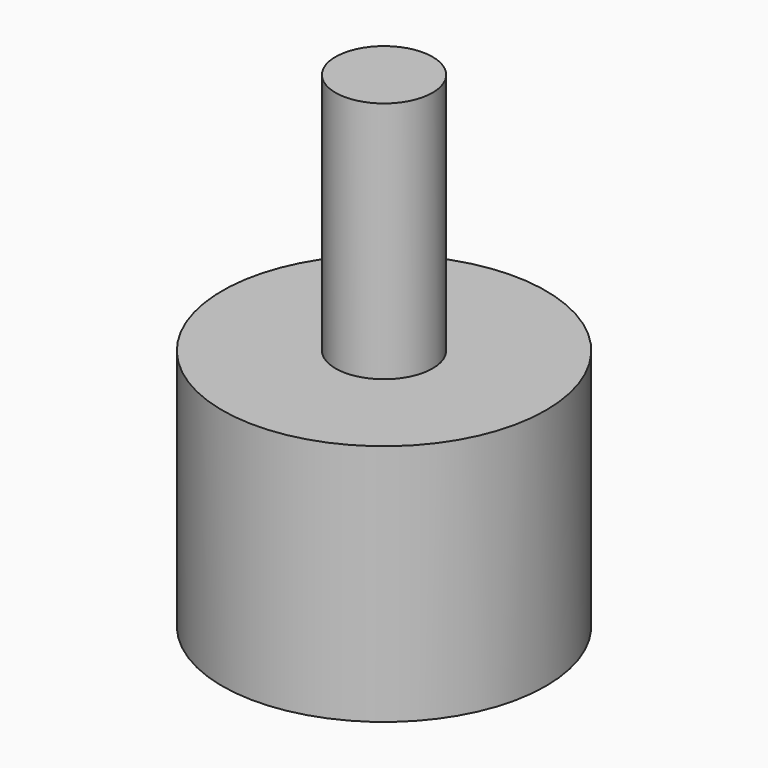
from build123d import *

# Parameters (mm, degrees)
F0_R     = 10
F0_R_2   = 3.1
F1_DEPTH = 5
F2_R     = 10
F2_R_2   = 3.1
F2_R_3   = 3
F3_DEPTH = 10
F4_DEPTH = 25


with BuildPart() as f1:
    # F0 (on Top) → F1 (new body)
    with BuildSketch(Plane.XY):
        Circle(F0_R)
        Circle(F0_R_2, mode=Mode.SUBTRACT)
    extrude(amount=F1_DEPTH)

    # F2 (on face) → F3 (join)
    with BuildSketch(Plane.XY.offset(5)):
        Circle(F2_R)
        Circle(F2_R_2, mode=Mode.SUBTRACT)
        Circle(F2_R_2)
        Circle(F2_R_3, mode=Mode.SUBTRACT)
    extrude(amount=F3_DEPTH)

    # F2 (on face) → F4 (join)
    with BuildSketch(Plane.XY.offset(5)):
        Circle(F2_R_3)
    extrude(amount=F4_DEPTH)


solid = f1.part
